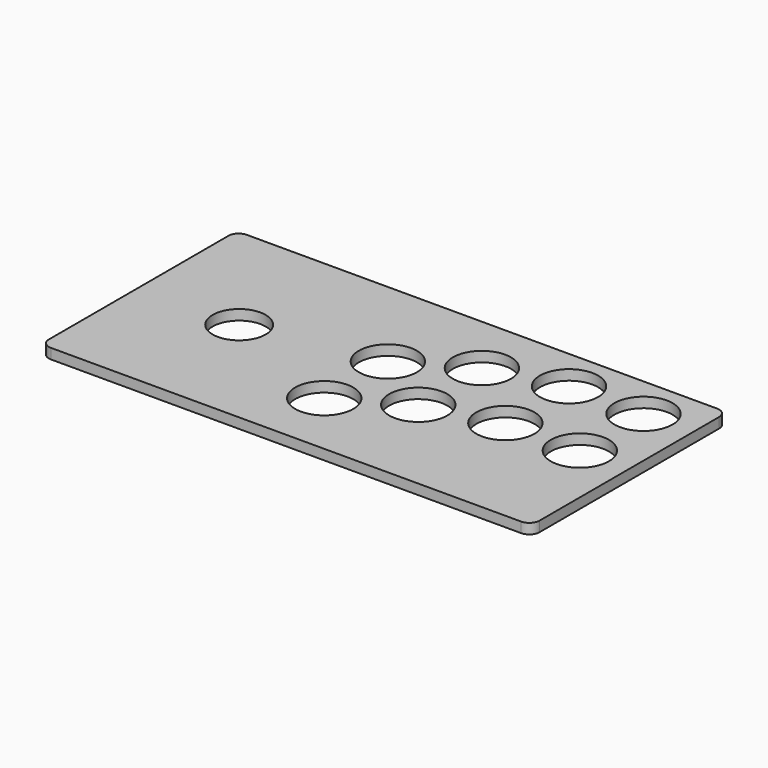
from build123d import *

# Parameters (mm, degrees)
F0_W     = 240.5
F0_H     = 120
F0_R     = 13
F0_R_2   = 14.25
F1_DEPTH = 5
F2_R     = 5


with BuildPart() as f1:
    # F0 (on Top) → F1 (new body)
    with BuildSketch(Plane.XY):
        with Locations((7.651834, -4.347655)):
            Rectangle(F0_W, F0_H)
        with Locations((-63.348166, -4.347655)):
            Circle(F0_R, mode=Mode.SUBTRACT)
        with Locations((0.151834, -31.597655)):
            Circle(F0_R_2, mode=Mode.SUBTRACT)
        with Locations((31.651834, -13.347655)):
            Circle(F0_R_2, mode=Mode.SUBTRACT)
        with Locations((67.151834, -4.347655)):
            Circle(F0_R_2, mode=Mode.SUBTRACT)
        with Locations((103.651834, -4.347655)):
            Circle(F0_R_2, mode=Mode.SUBTRACT)
        with Locations((0.151834, 7.402345)):
            Circle(F0_R_2, mode=Mode.SUBTRACT)
        with Locations((31.651834, 25.652345)):
            Circle(F0_R_2, mode=Mode.SUBTRACT)
        with Locations((67.151834, 34.652345)):
            Circle(F0_R_2, mode=Mode.SUBTRACT)
        with Locations((103.651834, 34.652345)):
            Circle(F0_R_2, mode=Mode.SUBTRACT)
    extrude(amount=F1_DEPTH)

    # F2
    f2_edges = [f1.edges().sort_by_distance(p)[0] for p in [
        (-112.598166, -64.347655, 2.5),
        (127.901834, -64.347655, 2.5),
        (127.901834, 55.652345, 2.5),
        (-112.598166, 55.652345, 2.5),
    ]]
    fillet(f2_edges, radius=F2_R)


solid = f1.part
